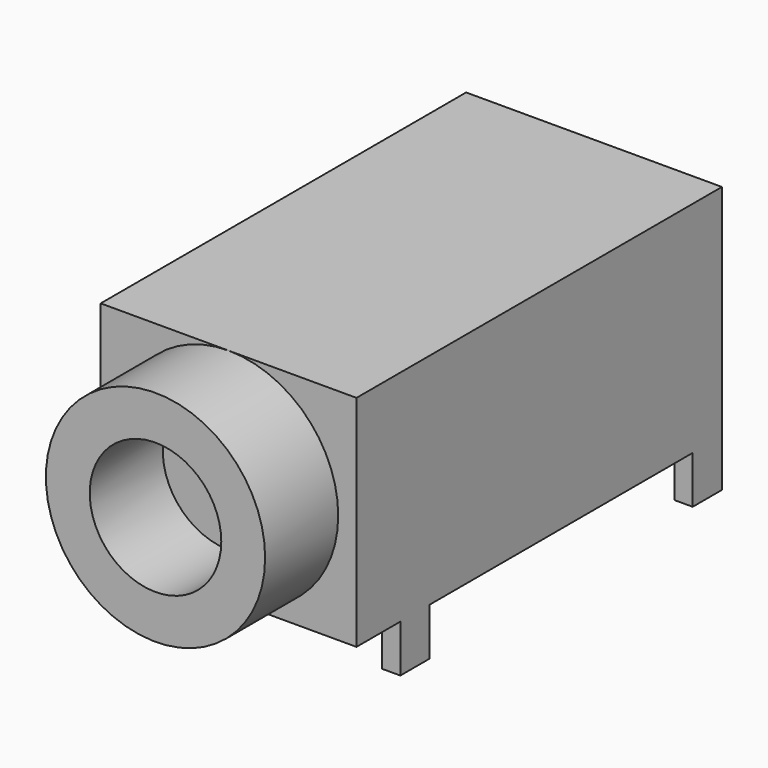
from build123d import *

# Parameters (mm, degrees)
F0_W     = 7
F0_H     = 6
F1_DEPTH = 12.5
F2_R     = 3
F2_R_2   = 1.8
F3_DEPTH = 2.5
F4_W     = 0.5
F4_H     = 1
F5_DEPTH = 1.3


with BuildPart() as f1:
    # F0 (on Front) → F1 (new body)
    with BuildSketch(Plane.XZ):
        with Locations((3.5, 3)):
            Rectangle(F0_W, F0_H)
    extrude(amount=F1_DEPTH)

    # F2 (on face) → F3 (join)
    with BuildSketch(Plane.XZ.offset(12.5)):
        with Locations((3.5, 3)):
            Circle(F2_R)
        with Locations((3.5, 3)):
            Circle(F2_R_2, mode=Mode.SUBTRACT)
    extrude(amount=F3_DEPTH)

    # F4 (on face) → F5 (join)
    with BuildSketch(Plane(origin=(0, 0, 0), x_dir=(1, 0, 0), z_dir=(0, 0, -1))):
        with Locations((0.25, 0.5)):
            Rectangle(F4_W, F4_H)
        with Locations((0.25, 10.5)):
            Rectangle(F4_W, F4_H)
        with Locations((6.75, 10.5)):
            Rectangle(F4_W, F4_H)
        with Locations((6.75, 0.5)):
            Rectangle(F4_W, F4_H)
    extrude(amount=F5_DEPTH)


solid = f1.part
